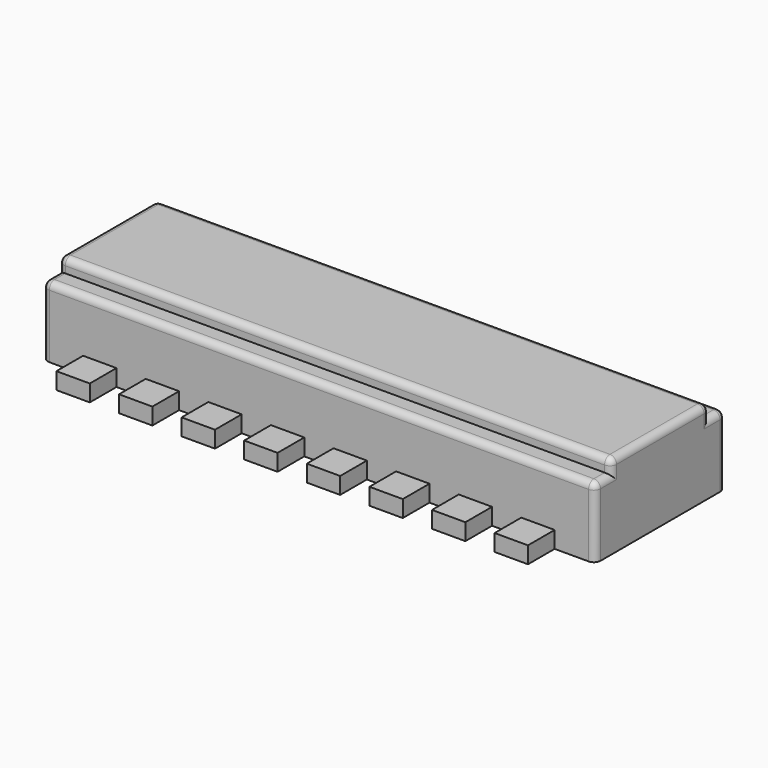
from build123d import *

# Parameters (mm, degrees)
F0_W     = 21.03374
F0_H     = 6.19252
F1_DEPTH = 3.175
F2_W     = 1.27
F2_H     = 1.27
F3_DEPTH = 0.635
F5_W     = 0.762
F5_H     = 0.508
F6_DEPTH = 25.4
F7_R     = 0.254


with BuildPart() as f1:
    # F0 (on Top) → F1 (new body)
    with BuildSketch(Plane.XY):
        with Locations((1.38811, -1.27)):
            Rectangle(F0_W, F0_H)
    extrude(amount=F1_DEPTH)

    # F2 (on Top) → F3 (join)
    with BuildSketch(Plane.XY):
        with Locations((-6.95198, 2.46126)):
            Rectangle(F2_W, F2_H)
        with Locations((-4.56946, 2.46126)):
            Rectangle(F2_W, F2_H)
        with Locations((-2.18694, 2.46126)):
            Rectangle(F2_W, F2_H)
        with Locations((0.19558, 2.46126)):
            Rectangle(F2_W, F2_H)
        with Locations((2.5781, 2.46126)):
            Rectangle(F2_W, F2_H)
        with Locations((4.96062, 2.46126)):
            Rectangle(F2_W, F2_H)
        with Locations((7.34314, 2.46126)):
            Rectangle(F2_W, F2_H)
        with Locations((-6.95198, -5.00126)):
            Rectangle(F2_W, F2_H)
        with Locations((-4.56946, -5.00126)):
            Rectangle(F2_W, F2_H)
        with Locations((-2.18694, -5.00126)):
            Rectangle(F2_W, F2_H)
        with Locations((0.19558, -5.00126)):
            Rectangle(F2_W, F2_H)
        with Locations((2.5781, -5.00126)):
            Rectangle(F2_W, F2_H)
        with Locations((4.96062, -5.00126)):
            Rectangle(F2_W, F2_H)
        with Locations((7.34314, -5.00126)):
            Rectangle(F2_W, F2_H)
        with Locations((9.72566, 2.46126)):
            Rectangle(F2_W, F2_H)
        with Locations((9.72566, -5.00126)):
            Rectangle(F2_W, F2_H)
    extrude(amount=F3_DEPTH)

    # F5 (on face) → F6 (cut)
    with BuildSketch(Plane(origin=(-9.12876, 0, 0), x_dir=(0, -1, 0), z_dir=(-1, 0, 0))):
        with Locations((-1.44526, 2.921)):
            Rectangle(F5_W, F5_H)
        with Locations((3.98526, 2.921)):
            Rectangle(F5_W, F5_H)
    extrude(amount=-F6_DEPTH, mode=Mode.SUBTRACT)

    # F7
    f7_edges = [f1.edges().sort_by_distance(p)[0] for p in [
        (1.38811, 1.82626, 2.667),
        (1.38811, 1.06426, 3.175),
        (1.38811, -3.60426, 3.175),
        (1.38811, -4.36626, 2.667),
        (-9.12876, -1.27, 3.175),
        (-9.12876, -3.60426, 2.921),
        (-9.12876, -3.98526, 2.667),
        (-9.12876, -4.36626, 1.3335),
        (-9.12876, 1.44526, 2.667),
        (-9.12876, 1.06426, 2.921),
        (-9.12876, 1.82626, 1.3335),
        (11.90498, -4.36626, 1.3335),
        (11.90498, -3.98526, 2.667),
        (11.90498, -3.60426, 2.921),
        (11.90498, -1.27, 3.175),
        (11.90498, 1.06426, 2.921),
        (11.90498, 1.44526, 2.667),
        (11.90498, 1.82626, 1.3335),
    ]]
    fillet(f7_edges, radius=F7_R)


solid = f1.part
